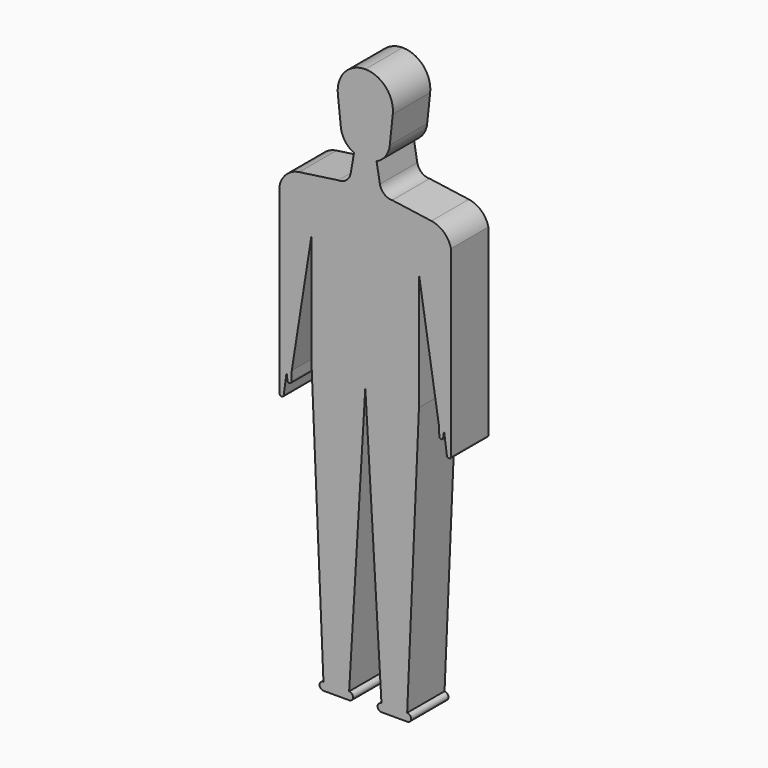
from build123d import *

# Parameters (mm, degrees)
F1_DEPTH = 76.2


with BuildPart() as f1:
    # F0 (on Front) → F1 (new body, symmetric)
    with BuildSketch(Plane.XZ):
        with BuildLine():
            Line((79.793475, 722.29123), (89.612059, 814.31675))
            ThreePointArc((89.612059, 814.31675), (67.049672, 884.27478), (0, 914.4))
            ThreePointArc((0, 914.4), (-67.049672, 884.27478), (-89.612059, 814.31675))
            Line((-89.612059, 814.31675), (-79.793475, 722.29123))
            ThreePointArc((-79.793475, 722.29123), (-66.196865, 686.570151), (-36.774459, 662.173731))
            Line((-36.774459, 662.173731), (-47.624361, 599.879563))
            ThreePointArc((-47.624361, 599.879563), (-61.709978, 575.826291), (-88.112503, 566.889226))
            Line((-88.112503, 566.889226), (-215.575173, 548.894525))
            ThreePointArc((-215.575173, 548.894525), (-256.557064, 529.550983), (-279.4, 490.411639))
            Line((-279.4, 490.411639), (-279.4, -107.24359))
            ThreePointArc((-279.4, -107.24359), (-272.626822, -114.016768), (-265.853643, -107.24359))
            Line((-265.853643, -107.24359), (-256.667912, -39.24812))
            Line((-256.667912, -39.24812), (-253.887126, -61.759664))
            ThreePointArc((-253.887126, -61.759664), (-247.130358, -67.232226), (-241.414511, -60.679978))
            Line((-241.414511, -60.679978), (-239.79786, -28.751193))
            Line((-239.79786, -28.751193), (-174.915597, 383.500844))
            Line((-174.915597, 383.500844), (-174.915597, 0))
            Line((-174.915597, 0), (-136.502743, -888.878047))
            ThreePointArc((-136.502743, -888.878047), (-149.263719, -901.639024), (-136.502743, -914.4))
            Line((-136.502743, -914.4), (-52.735128, -914.4))
            ThreePointArc((-52.735128, -914.4), (-39.974151, -901.639024), (-52.735128, -888.878047))
            Line((-52.735128, -888.878047), (0, 0))
            Line((0, 0), (52.735128, -888.878047))
            ThreePointArc((52.735128, -888.878047), (39.974151, -901.639024), (52.735128, -914.4))
            Line((52.735128, -914.4), (136.502743, -914.4))
            ThreePointArc((136.502743, -914.4), (149.263719, -901.639024), (136.502743, -888.878047))
            Line((136.502743, -888.878047), (174.915597, 0))
            Line((174.915597, 0), (174.915597, 383.500844))
            Line((174.915597, 383.500844), (239.79786, -28.751193))
            Line((239.79786, -28.751193), (241.414511, -60.679978))
            ThreePointArc((241.414511, -60.679978), (247.130358, -67.232226), (253.887126, -61.759664))
            Line((253.887126, -61.759664), (256.667912, -39.24812))
            Line((256.667912, -39.24812), (265.853643, -107.24359))
            ThreePointArc((265.853643, -107.24359), (272.626822, -114.016768), (279.4, -107.24359))
            Line((279.4, -107.24359), (279.4, 490.411639))
            ThreePointArc((279.4, 490.411639), (256.557064, 529.550983), (215.575173, 548.894525))
            Line((215.575173, 548.894525), (88.112503, 566.889226))
            ThreePointArc((88.112503, 566.889226), (61.709978, 575.826291), (47.624361, 599.879563))
            Line((47.624361, 599.879563), (36.774459, 662.173731))
            ThreePointArc((36.774459, 662.173731), (66.196865, 686.570151), (79.793475, 722.29123))
        make_face()
    extrude(amount=F1_DEPTH, both=True)


solid = f1.part
